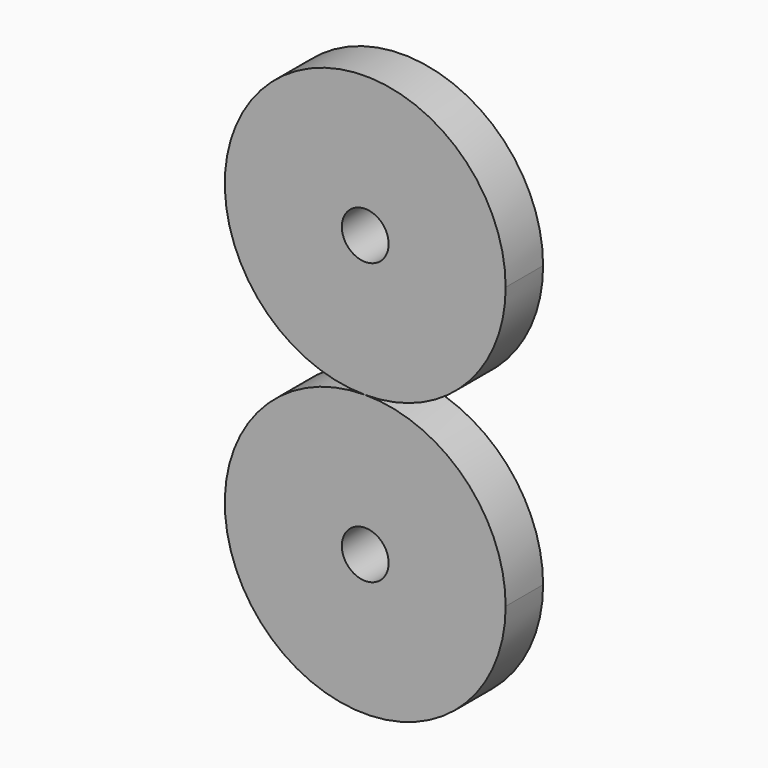
from build123d import *

# Parameters (mm, degrees)
F1_DEPTH = 6.35
F2_R     = 3.175
F4_DEPTH = 6.35


with BuildPart() as f1:
    # F0 (on Front) → F1 (new body)
    with BuildSketch(Plane.XZ):
        with BuildLine():
            ThreePointArc((0, 19.05), (-13.470384, -13.470384), (19.05, 0))
            ThreePointArc((19.05, 0), (13.470384, 13.470384), (0, 19.05))
        make_face()
        with BuildLine():
            ThreePointArc((19.05, 38.1), (-13.470384, 51.570384), (0, 19.05))
            ThreePointArc((0, 19.05), (13.470384, 24.629616), (19.05, 38.1))
        make_face()
    extrude(amount=F1_DEPTH)

    # F3 (on face) + F2 (on face) → F4 (cut)
    with BuildSketch(Plane.XZ.offset(6.35)):
        with BuildLine():
            ThreePointArc((3.175, 38.1), (2.245064, 40.345064), (0, 41.275))
            ThreePointArc((0, 41.275), (-2.245064, 35.854936), (3.175, 38.1))
        make_face()
    with BuildSketch(Plane.XZ.offset(6.35)):
        Circle(F2_R)
    extrude(amount=-F4_DEPTH, mode=Mode.SUBTRACT)


solid = f1.part
